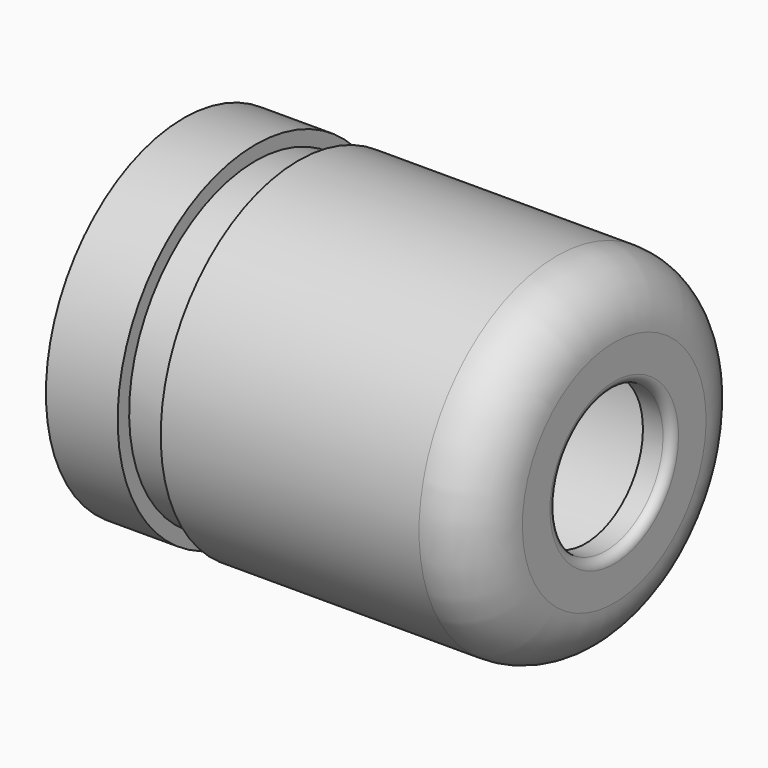
from build123d import *


with BuildPart() as f1:
    # F0 (on Front) → F1 (revolve)
    with BuildSketch(Plane.XZ):
        with BuildLine():
            Line((0, 6), (0, 4.5))
            Line((0, 4.5), (14, 4.5))
            Line((14, 4.5), (14, 2.5))
            Line((14, 2.5), (14.7, 2.5))
            ThreePointArc((14.7, 2.5), (14.912132, 2.587868), (15, 2.8))
            Line((15, 2.8), (15, 4))
            ThreePointArc((15, 4), (14.414214, 5.414214), (13, 6))
            Line((13, 6), (4, 6))
            Line((4, 6), (4, 5.5))
            Line((4, 5.5), (2.5, 5.5))
            Line((2.5, 5.5), (2.5, 6))
            Line((2.5, 6), (0, 6))
        make_face()
    revolve(axis=Axis((8.502791, 0, 0), (1, 0, 0)))


solid = f1.part
